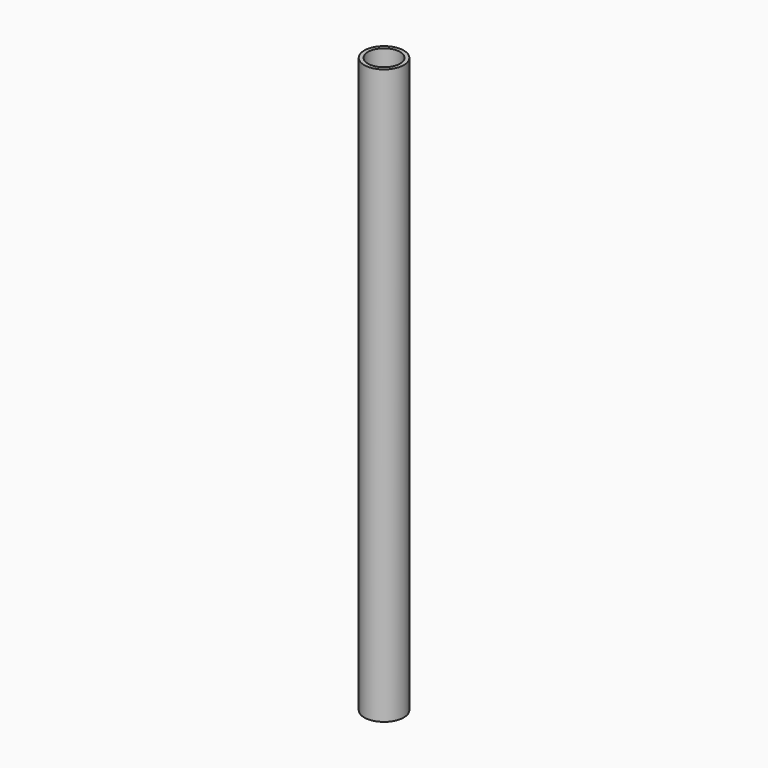
from build123d import *

# Parameters (mm, degrees)
F0_W     = 4
F0_H     = 609.6
F2_R     = 9
F3_DEPTH = 21.001


with BuildPart() as f1:
    # F0 (on Front) → F1 (revolve)
    with BuildSketch(Plane.XZ):
        with Locations((19, -33.396814)):
            Rectangle(F0_W, F0_H)
    revolve(axis=Axis((0, 0, -33.951025), (0, 0, -1)))

    # F2 (on Right) → F3 (cut, through all)
    with BuildSketch(Plane.YZ):
        with Locations((0, -50)):
            Circle(F2_R)
    extrude(amount=-F3_DEPTH, mode=Mode.SUBTRACT)


solid = f1.part
